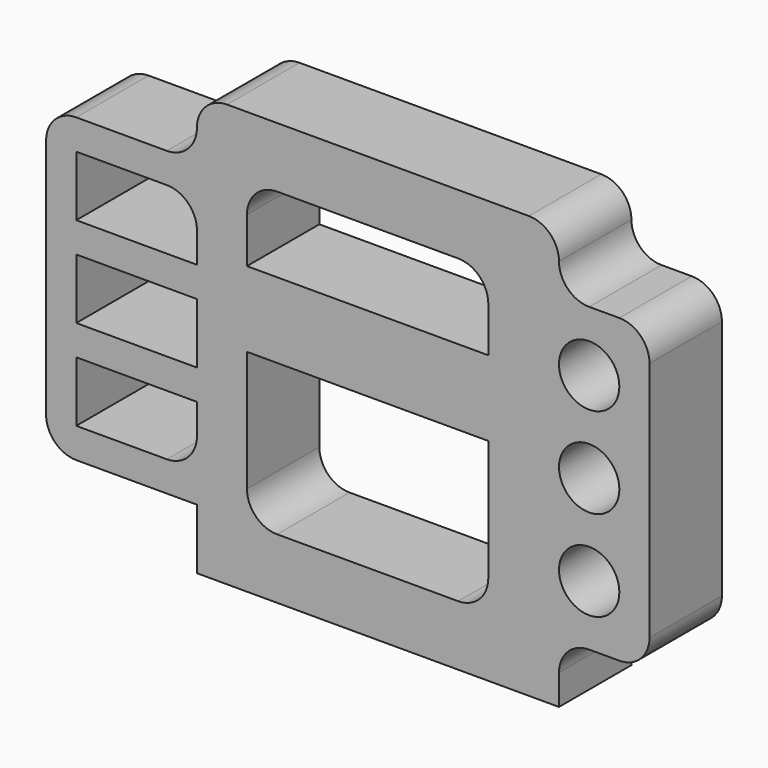
from build123d import *

# Parameters (mm, degrees)
F0_R     = 10
F0_W     = 40
F0_H     = 20
F1_DEPTH = 30


with BuildPart() as f1:
    # F0 (on Front) → F1 (new body)
    with BuildSketch(Plane.XZ):
        with BuildLine():
            Line((-57.559234, -24.272308), (-57.559234, -44.272308))
            Line((-57.559234, -44.272308), (62.440766, -44.272308))
            Line((62.440766, -44.272308), (62.440766, -34.272308))
            ThreePointArc((62.440766, -34.272308), (65.369698, -27.201241), (72.440766, -24.272308))
            Line((72.440766, -24.272308), (82.440766, -24.272308))
            ThreePointArc((82.440766, -24.272308), (89.511834, -21.343376), (92.440766, -14.272308))
            Line((92.440766, -14.272308), (92.440766, 65.727692))
            ThreePointArc((92.440766, 65.727692), (89.511834, 72.798759), (82.440766, 75.727692))
            Line((82.440766, 75.727692), (72.440766, 75.727692))
            ThreePointArc((72.440766, 75.727692), (65.369698, 78.656624), (62.440766, 85.727692))
            ThreePointArc((62.440766, 85.727692), (59.511834, 92.798759), (52.440766, 95.727692))
            Line((52.440766, 95.727692), (-47.559234, 95.727692))
            ThreePointArc((-47.559234, 95.727692), (-54.630302, 92.798759), (-57.559234, 85.727692))
            ThreePointArc((-57.559234, 85.727692), (-60.488166, 78.656624), (-67.559234, 75.727692))
            Line((-67.559234, 75.727692), (-97.559234, 75.727692))
            ThreePointArc((-97.559234, 75.727692), (-104.630302, 72.798759), (-107.559234, 65.727692))
            Line((-107.559234, 65.727692), (-107.559234, -14.272308))
            ThreePointArc((-107.559234, -14.272308), (-104.630302, -21.343376), (-97.559234, -24.272308))
            Line((-97.559234, -24.272308), (-57.559234, -24.272308))
        make_face()
        with BuildLine():
            Line((-97.559234, -14.272308), (-97.559234, 5.727692))
            Line((-97.559234, 5.727692), (-57.559234, 5.727692))
            Line((-57.559234, 5.727692), (-57.559234, -4.272308))
            ThreePointArc((-57.559234, -4.272308), (-60.488166, -11.343376), (-67.559234, -14.272308))
            Line((-67.559234, -14.272308), (-97.559234, -14.272308))
        make_face(mode=Mode.SUBTRACT)
        with BuildLine():
            Line((-40.987283, -14.272308), (-40.987283, 25.727692))
            Line((-40.987283, 25.727692), (39.012717, 25.727692))
            Line((39.012717, 25.727692), (39.012717, -14.272308))
            ThreePointArc((39.012717, -14.272308), (36.083785, -21.343376), (29.012717, -24.272308))
            Line((29.012717, -24.272308), (-30.987283, -24.272308))
            ThreePointArc((-30.987283, -24.272308), (-38.058351, -21.343376), (-40.987283, -14.272308))
        make_face(mode=Mode.SUBTRACT)
        with Locations((72.440766, -4.272308)):
            Circle(F0_R, mode=Mode.SUBTRACT)
        with Locations((-77.559234, 25.727692)):
            Rectangle(F0_W, F0_H, mode=Mode.SUBTRACT)
        with BuildLine():
            Line((-97.559234, 45.727692), (-97.559234, 65.727692))
            Line((-97.559234, 65.727692), (-67.559234, 65.727692))
            ThreePointArc((-67.559234, 65.727692), (-60.488166, 62.798759), (-57.559234, 55.727692))
            Line((-57.559234, 55.727692), (-57.559234, 45.727692))
            Line((-57.559234, 45.727692), (-97.559234, 45.727692))
        make_face(mode=Mode.SUBTRACT)
        with Locations((72.440766, 25.727692)):
            Circle(F0_R, mode=Mode.SUBTRACT)
        with Locations((72.440766, 55.727692)):
            Circle(F0_R, mode=Mode.SUBTRACT)
        with BuildLine():
            ThreePointArc((-40.987283, 65.727692), (-38.058351, 72.798759), (-30.987283, 75.727692))
            Line((-30.987283, 75.727692), (29.012717, 75.727692))
            ThreePointArc((29.012717, 75.727692), (36.083785, 72.798759), (39.012717, 65.727692))
            Line((39.012717, 65.727692), (39.012717, 50.727692))
            Line((39.012717, 50.727692), (-40.987283, 50.727692))
            Line((-40.987283, 50.727692), (-40.987283, 65.727692))
        make_face(mode=Mode.SUBTRACT)
    extrude(amount=F1_DEPTH)


solid = f1.part
